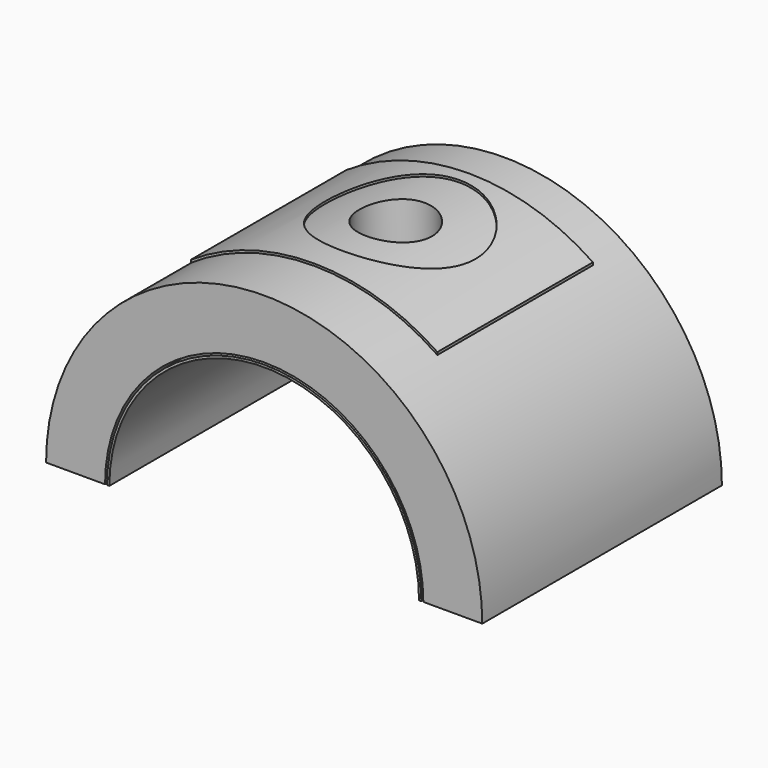
from build123d import *

# Parameters (mm, degrees)
F1_DEPTH  = 62.23
F5_DEPTH  = 40.386
F7_R      = 15.6378142811
F8_DEPTH  = 5.9182
F10_DEPTH = 61.468
F2_R      = 7.5300528798
F11_DEPTH = 61.214


with BuildPart() as f1:
    # F0 (on Front) → F1 (new body)
    with BuildSketch(Plane.XZ):
        with BuildLine():
            Line((33.065059418, 0), (45.3126704294, 0))
            ThreePointArc((45.3126704294, 0), (0, 45.3126704294), (-45.3126704294, 0))
            Line((-45.3126704294, 0), (-33.065059418, 0))
            ThreePointArc((-33.065059418, 0), (0, 33.065059418), (33.065059418, 0))
        make_face()
    extrude(amount=-F1_DEPTH)


with BuildPart() as f5:
    # F4 (on offset) → F5 (new body)
    with BuildSketch(Plane.XZ.offset(-12.7)):
        with BuildLine():
            Line((-25.4087150097, 38.3940178116), (-25.4087150097, 37.8486377124))
            ThreePointArc((-25.4087150097, 37.8486377124), (0.2421673779, 45.6160268954), (25.8278329857, 37.6364393506))
            Line((25.8278329857, 37.6364393506), (25.8278329857, 38.1848504555))
            ThreePointArc((25.8278329857, 38.1848504555), (0.2413204096, 46.0695468195), (-25.4087150097, 38.3940178116))
        make_face()
    extrude(amount=-F5_DEPTH)

    # F7 (on offset) → F8 (cut)
    with BuildSketch(Plane.XY.offset(48.514)):
        with Locations((0.5534864613, 34.6601381898)):
            Circle(F7_R)
    extrude(amount=-F8_DEPTH, mode=Mode.SUBTRACT)


with BuildPart() as f10:
    # F9 (on Front) → F10 (new body)
    with BuildSketch(Plane.XZ):
        with BuildLine():
            ThreePointArc((-32.1748587606, 0), (0, 32.1748587606), (32.1748587606, 0))
            Line((32.1748587606, 0), (32.6482600665, 0))
            ThreePointArc((32.6482600665, 0), (0, 32.6482600665), (-32.6482600665, 0))
            Line((-32.6482600665, 0), (-32.1748587606, 0))
        make_face()
    extrude(amount=-F10_DEPTH)


with BuildPart() as f11_tool:
    # F2 (on Top) → F11 (new body)
    with BuildSketch(Plane.XY):
        with Locations((0, 34.14754197)):
            Circle(F2_R)
    extrude(amount=F11_DEPTH)


with BuildPart() as f1_1:
    add(f1.part)

    # F11: cut by f11_tool
    add(f11_tool.part, mode=Mode.SUBTRACT)


with BuildPart() as f10_1:
    add(f10.part)

    # F11: cut by f11_tool
    add(f11_tool.part, mode=Mode.SUBTRACT)


solid = Compound([f5.part, f1_1.part, f10_1.part])
